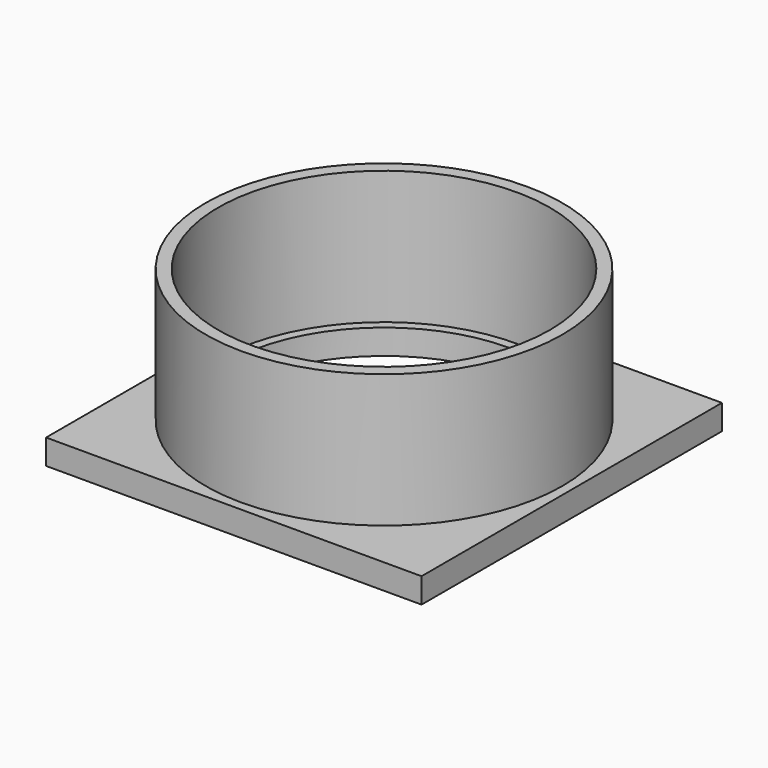
from build123d import *

# Parameters (mm, degrees)
F0_W     = 15
F0_H     = 15
F0_R     = 6.261
F1_DEPTH = 1
F2_R     = 7.125
F2_R_2   = 6.625
F3_DEPTH = 6.325


with BuildPart() as f1:
    # F0 (on Top) → F1 (new body)
    with BuildSketch(Plane.XY):
        Rectangle(F0_W, F0_H)
        Circle(F0_R, mode=Mode.SUBTRACT)
    extrude(amount=F1_DEPTH)


with BuildPart() as f3:
    # F2 (on Top) → F3 (new body)
    with BuildSketch(Plane.XY):
        Circle(F2_R)
        Circle(F2_R_2, mode=Mode.SUBTRACT)
    extrude(amount=F3_DEPTH)


solid = Compound([f1.part, f3.part])
